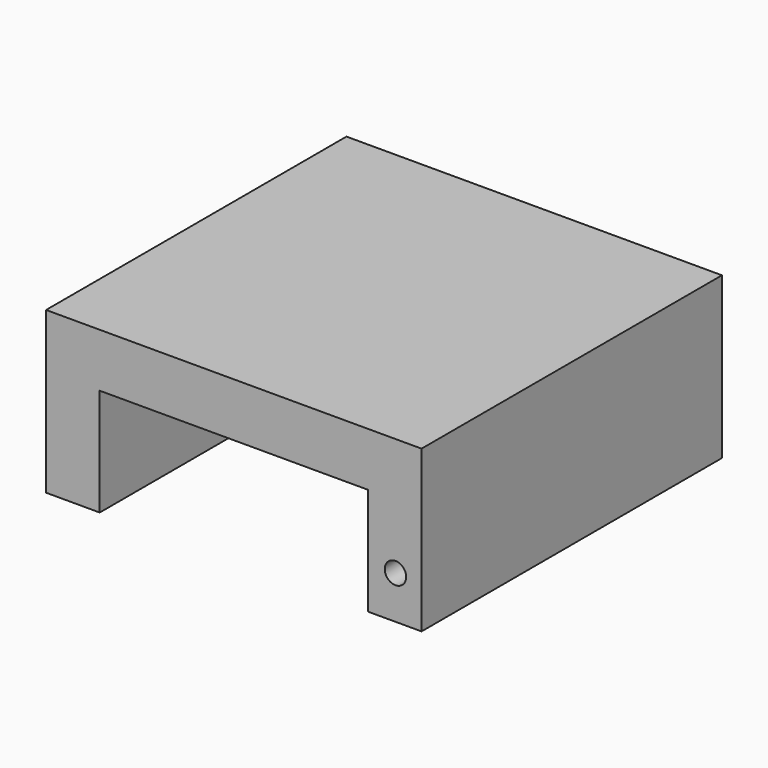
from build123d import *

# Parameters (mm, degrees)
F0_R     = 2.54
F1_DEPTH = 88.9


with BuildPart() as f1:
    # F0 (on Front) → F1 (new body)
    with BuildSketch(Plane.XZ):
        Polygon((-88.9, -38.0440002276), (-76.2, -38.0440002276), (-76.2, -12.6440002276), (-12.7, -12.6440002276), (-12.7, -38.0440002276), (0, -38.0440002276), (0, 0.0559997724), (-88.9, 0.0559997724), (-88.9, -12.6440002276), align=None)
        with Locations((-6.1765108258, -27.8850197792)):
            Circle(F0_R, mode=Mode.SUBTRACT)
    extrude(amount=F1_DEPTH)


with BuildPart() as f1b:
    # F0 (on Front) → F1, piece 2 (new body)
    with BuildSketch(Plane.XZ):
        with Locations((-59.0428002179, -29.2415227741)):
            Circle(F0_R)
    extrude(amount=F1_DEPTH)


solid = f1.part
